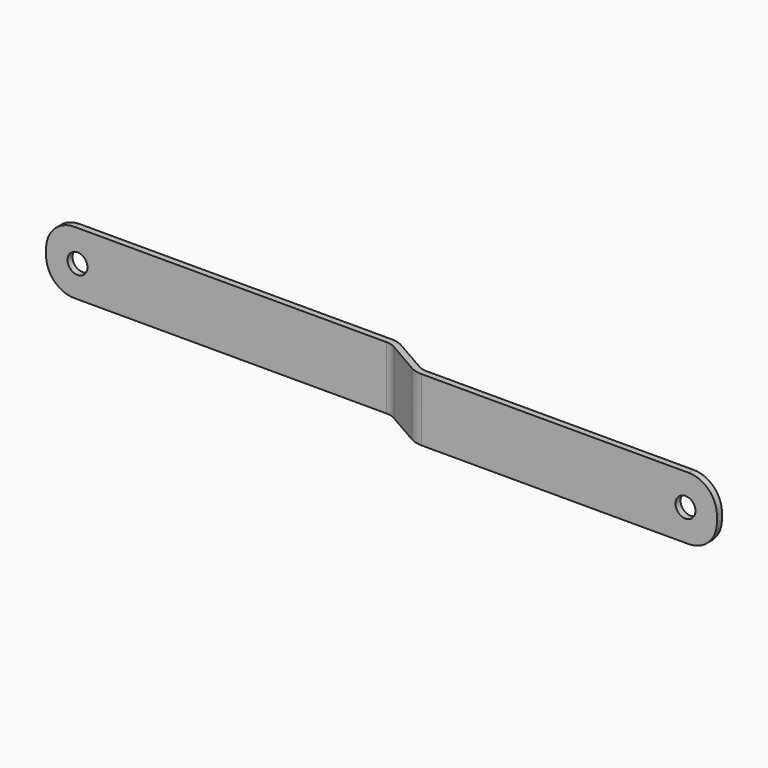
from build123d import *

# Parameters (mm, degrees)
F1_DEPTH = 5
F3_D     = 3.175
F4_R     = 4.5


with BuildPart() as f1:
    # F0 (on Top) → F1 (new body, symmetric)
    with BuildSketch(Plane.XY):
        with BuildLine():
            Line((-5, 16), (-5, 15))
            Line((-5, 15), (49.196152, 15))
            ThreePointArc((49.196152, 15), (49.97261, 14.897777), (50.696152, 14.598076))
            Line((50.696152, 14.598076), (56, 11.535898))
            ThreePointArc((56, 11.535898), (56.964724, 11.136297), (58, 11))
            Line((58, 11), (105, 11))
            Line((105, 11), (105, 12))
            Line((105, 12), (58, 12))
            ThreePointArc((58, 12), (57.223543, 12.102223), (56.5, 12.401924))
            Line((56.5, 12.401924), (51.196152, 15.464102))
            ThreePointArc((51.196152, 15.464102), (50.231429, 15.863703), (49.196152, 16))
            Line((49.196152, 16), (-5, 16))
        make_face()
    extrude(amount=F1_DEPTH, both=True)

    # F3 (through all)
    with Locations(Plane.XZ):
        with Locations((0, 0), (100, 0)):
            Hole(F3_D / 2)

    # F4
    f4_edges = [f1.edges().sort_by_distance(p)[0] for p in [
        (105, 11.5, 5),
        (105, 11.5, -5),
        (-5, 15.5, 5),
        (-5, 15.5, -5),
    ]]
    fillet(f4_edges, radius=F4_R)


solid = f1.part
